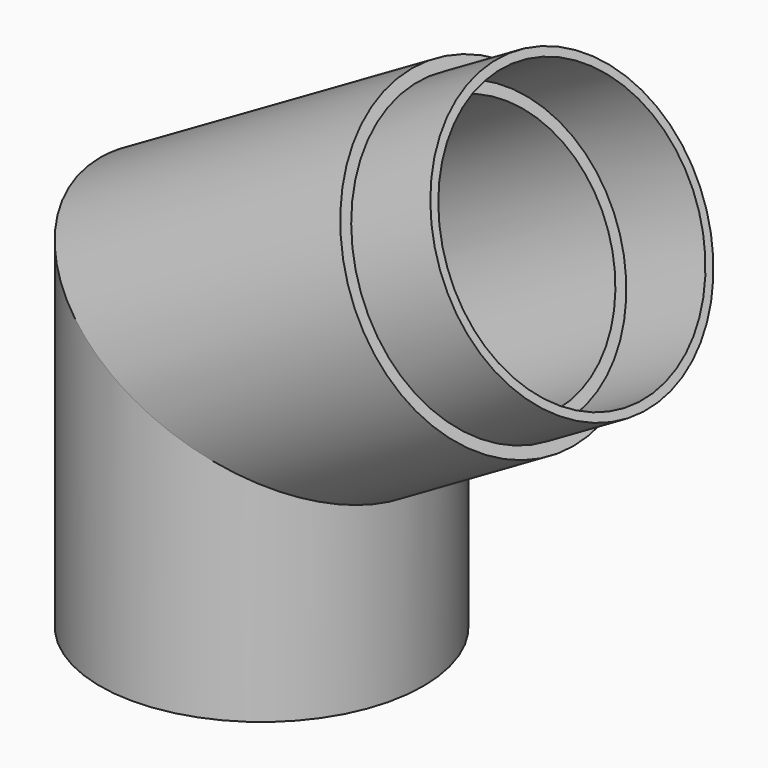
from build123d import *

# Parameters (mm, degrees)
F1_R     = 23
F1_R_2   = 21.5
F1_R_3   = 20
F1_R_4   = 18.5
F3_R     = 21.35
F3_R_2   = 20.15
F4_DEPTH = 13
F5_DEPTH = 13


with BuildPart() as f2:
    # F2: sweep along a path in F0
    with BuildLine(Plane.XZ) as f2_path:
        Line((0, 0), (0, 37.9670113325))
        Line((0, 37.9670113325), (32.880303367, 56.9504633325))
    # F1 (on Top) → F2 (sweep)
    with BuildSketch(Plane.XY):
        Circle(F1_R)
        Circle(F1_R_2, mode=Mode.SUBTRACT)
        Circle(F1_R_2)
        Circle(F1_R_3, mode=Mode.SUBTRACT)
        Circle(F1_R_3)
        Circle(F1_R_4, mode=Mode.SUBTRACT)
    sweep(path=f2_path.line, transition=Transition.RIGHT)

    # F3 (on face) → F4 (join)
    with BuildSketch(Plane(origin=(49.3205015269, 0, 28.4752048331), x_dir=(0, 1, 0), z_dir=(0.8660254038, 0, 0.5))):
        with Locations((0, 32.8803963197)):
            Circle(F3_R)
        with Locations((0, 32.8803963197)):
            Circle(F3_R_2, mode=Mode.SUBTRACT)
    extrude(amount=F4_DEPTH)

    # F1 (on Top) → F5 (cut)
    with BuildSketch(Plane.XY):
        Circle(F1_R_2)
        Circle(F1_R_3, mode=Mode.SUBTRACT)
    extrude(amount=F5_DEPTH, mode=Mode.SUBTRACT)


solid = f2.part
